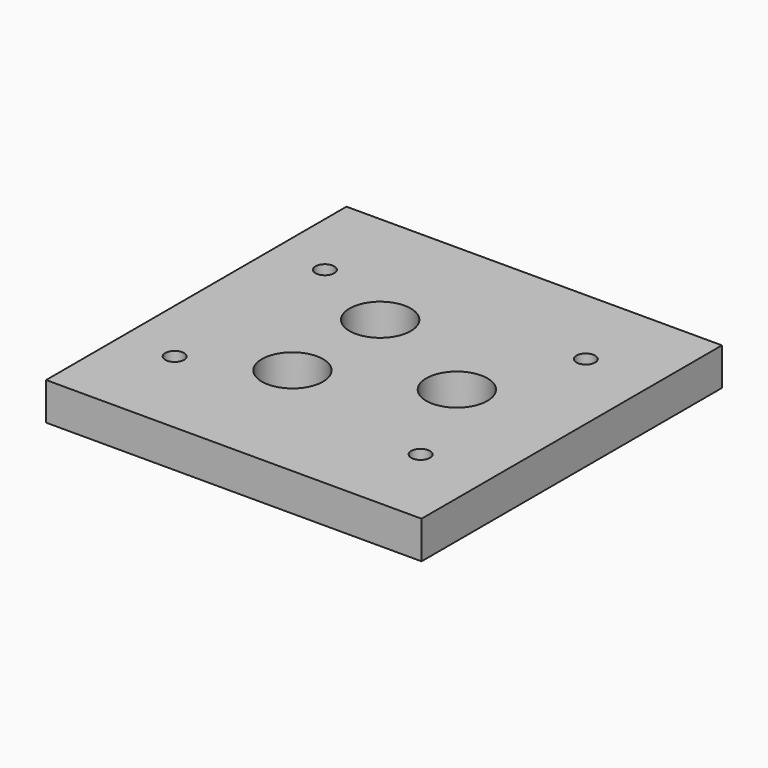
from build123d import *

# Parameters (mm, degrees)
F0_W     = 20
F0_H     = 20
F0_R     = 1.63
F1_DEPTH = 2
F3_D     = 1


with BuildPart() as f1:
    # F0 (on Top) → F1 (new body)
    with BuildSketch(Plane.XY):
        Rectangle(F0_W, F0_H)
        with Locations((-2.54, -2.92)):
            Circle(F0_R, mode=Mode.SUBTRACT)
        with Locations((-2.54, 2.92)):
            Circle(F0_R, mode=Mode.SUBTRACT)
        with Locations((3.88, 0)):
            Circle(F0_R, mode=Mode.SUBTRACT)
    extrude(amount=F1_DEPTH)

    # F3 (through all)
    with Locations(Plane.XY.offset(2)):
        with Locations((6.35, 5.5), (6.35, -5.5), (-7.15, -5), (-7.15, 5)):
            Hole(F3_D / 2)


solid = f1.part
